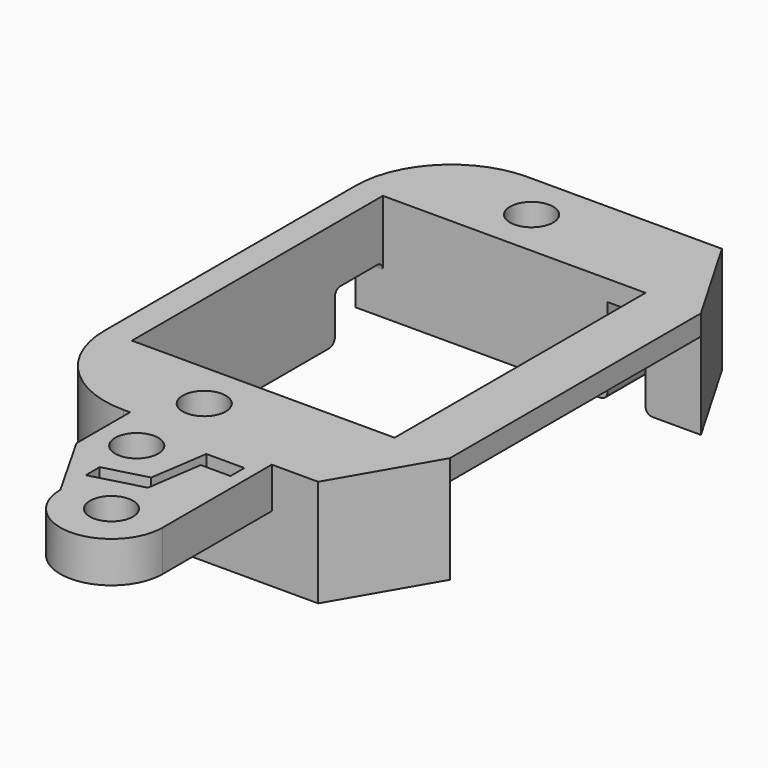
from build123d import *

# Parameters (mm, degrees)
PAD_DEPTH       = 6.35
SKETCH001_W     = 19.26
SKETCH001_H     = 23
PAD001_DEPTH    = 1.5
SKETCH003_R     = 1.58
POCKET_DEPTH    = 98.88341
SKETCH002_W     = 4.4
SKETCH002_H     = 3.6
POCKET001_DEPTH = 14.106
FILLET_R        = 7
FILLET001_R     = 0.5
SKETCH004_R     = 1.58
PAD002_DEPTH    = 3


with BuildPart() as part:
    # Sketch → Pad (new body)
    with BuildSketch(Plane.XY):
        Polygon((4.355, -11.5), (-12.105, -11.5), (-12.105, 11.5), (4.355, 11.5), (4.355, 16.5), (7.155, 16.5), (7.155, 11.5), (11.215, 11.5), (7.155, 18.5), (-14.105, 18.5), (-14.105, -18.5), (7.155, -18.5), (11.215, -11.5), (7.155, -11.5), (7.155, -16.5), (4.355, -16.5), align=None)
    extrude(amount=PAD_DEPTH)

    # Sketch001 → Pad001 (join)
    with BuildSketch(Plane.XY.offset(6.35)):
        Polygon((-14.105, 0), (-14.105, 18.5), (7.155, 18.5), (11.215, 11.5), (11.215, -11.5), (7.155, -18.5), (-14.105, -18.5), align=None)
        with Locations((-2.475, 0)):
            Rectangle(SKETCH001_W, SKETCH001_H, mode=Mode.SUBTRACT)
    extrude(amount=PAD001_DEPTH)

    # Sketch003 → Pocket (cut, through all)
    with BuildSketch(Plane.XY):
        with Locations((-4, 15)):
            Circle(SKETCH003_R)
    pocket = extrude(amount=POCKET_DEPTH, mode=Mode.SUBTRACT)

    # Mirrored: Pocket across Sketch003 H_Axis
    add(pocket.mirror(Plane.ZX), mode=Mode.SUBTRACT)

    # Sketch002 → Pocket001 (cut, through all)
    with BuildSketch(Plane.YZ):
        with Locations((9.3, 1.8)):
            Rectangle(SKETCH002_W, SKETCH002_H)
    extrude(amount=-POCKET001_DEPTH, mode=Mode.SUBTRACT)

    # Fillet
    fillet_edges = [part.edges().sort_by_distance(p)[0] for p in [
        (-14.105, -18.5, 3.175),
        (-14.105, 18.5, 3.175),
    ]]
    fillet(fillet_edges, radius=FILLET_R)

    # Fillet001
    fillet001_edges = [part.edges().sort_by_distance(p)[0] for p in [
        (-13.105, 7.1, 0),
        (-13.105, 7.1, 3.6),
        (-13.105, 11.5, 3.6),
        (7.155, 14, 0),
        (5.755, 16.5, 0),
        (4.355, 14, 0),
        (7.155, -14, 0),
        (5.755, -16.5, 0),
        (4.355, -14, 0),
        (-5.58, -15, 0),
        (-5.58, 15, 0),
    ]]
    fillet(fillet001_edges, radius=FILLET001_R)

    # Sketch004 → Pad002 (join)
    with BuildSketch(Plane.XY.offset(7.85)):
        with BuildLine():
            Line((-6.6411, -18.5), (3.75, -18.5))
            Line((3.75, -18.5), (3.75, -28.5))
            ThreePointArc((-3.75, -28.5), (0, -32.25), (3.75, -28.5))
            Line((-3.75, -28.5), (-6.6411, -23.41))
            Line((-6.6411, -23.41), (-6.6411, -18.5))
        make_face()
        with Locations((0, -28.5)):
            Circle(SKETCH004_R, mode=Mode.SUBTRACT)
        with Locations((-3.75, -21.5)):
            Circle(SKETCH004_R, mode=Mode.SUBTRACT)
        Polygon((2.788238, -19.805846), (0, -19.805846), (-0.638352, -24.059963), (-3.75, -24.893727), (-3.75, -26.170431), (0, -25.165621), (0.612686, -21.08255), (2.788238, -21.08255), align=None, mode=Mode.SUBTRACT)
    extrude(amount=-PAD002_DEPTH)


solid = part.part
